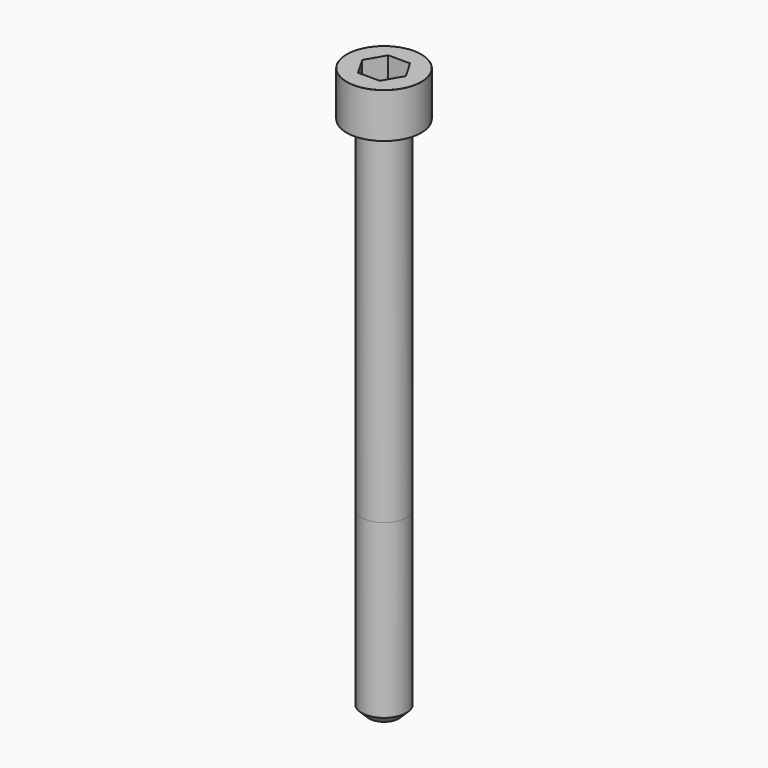
from build123d import *

# Parameters (mm, degrees)
POCKET_DEPTH = 5.06


with BuildPart() as part:
    # Sketch → Revolve (revolve)
    with BuildSketch(Plane.YZ):
        with BuildLine():
            Line((2.999, 0), (5, 0))
            Line((5, 0), (5, 5.97229))
            ThreePointArc((5, 5.97229), (4.991884, 5.991884), (4.97229, 6))
            Line((4.97229, 6), (0, 6))
            Line((0, -70), (0, 6))
            Line((2, -70), (0, -70))
            Line((3, -69), (2, -70))
            Line((3, -46), (3, -69))
            Line((2.999, 0), (3, -46))
        make_face()
    revolve(axis=Axis((0, 0, 0), (0, 0, 1)))

    # Sketch001 → Pocket (cut)
    with BuildSketch(Plane.XY.offset(6)):
        Polygon((2.921392, 0), (1.460696, 2.53), (-1.460696, 2.53), (-2.921392, 0), (-1.460696, -2.53), (1.460696, -2.53), align=None)
    extrude(amount=-POCKET_DEPTH, mode=Mode.SUBTRACT)


solid = part.part
